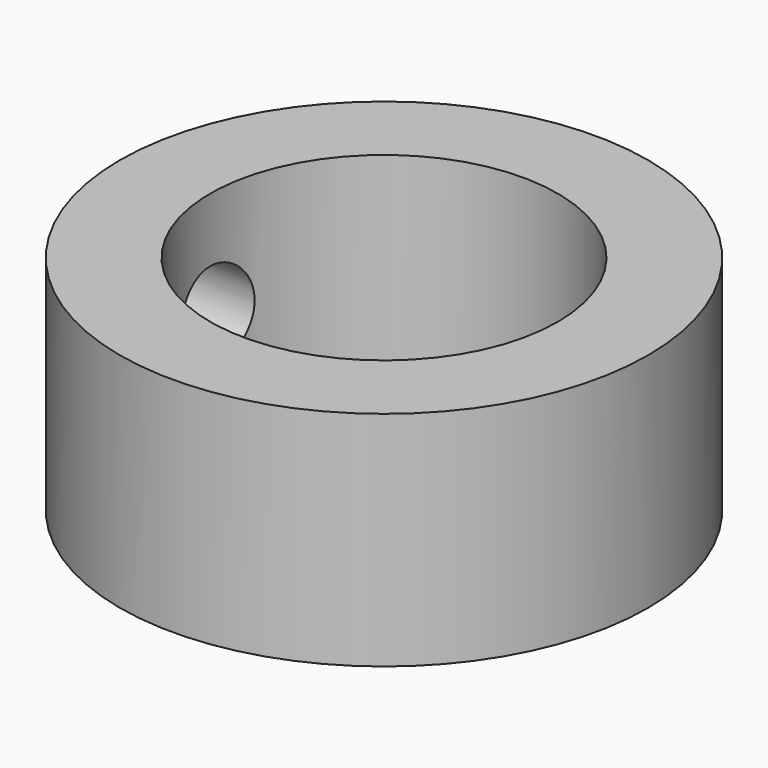
from build123d import *

# Parameters (mm, degrees)
SKETCH_R    = 19
SKETCH_R_2  = 12.5
PAD_DEPTH   = 8
SKETCH001_R = 3.4
HOLE_DEPTH  = 25


with BuildPart() as part:
    # Sketch → Pad (new body, symmetric)
    with BuildSketch(Plane.XY):
        Circle(SKETCH_R)
        Circle(SKETCH_R_2, mode=Mode.SUBTRACT)
    extrude(amount=PAD_DEPTH, both=True)

    # Sketch001 → Hole (cut)
    with BuildSketch(Plane.YZ):
        Circle(SKETCH001_R)
    extrude(amount=-HOLE_DEPTH, mode=Mode.SUBTRACT)


solid = part.part
